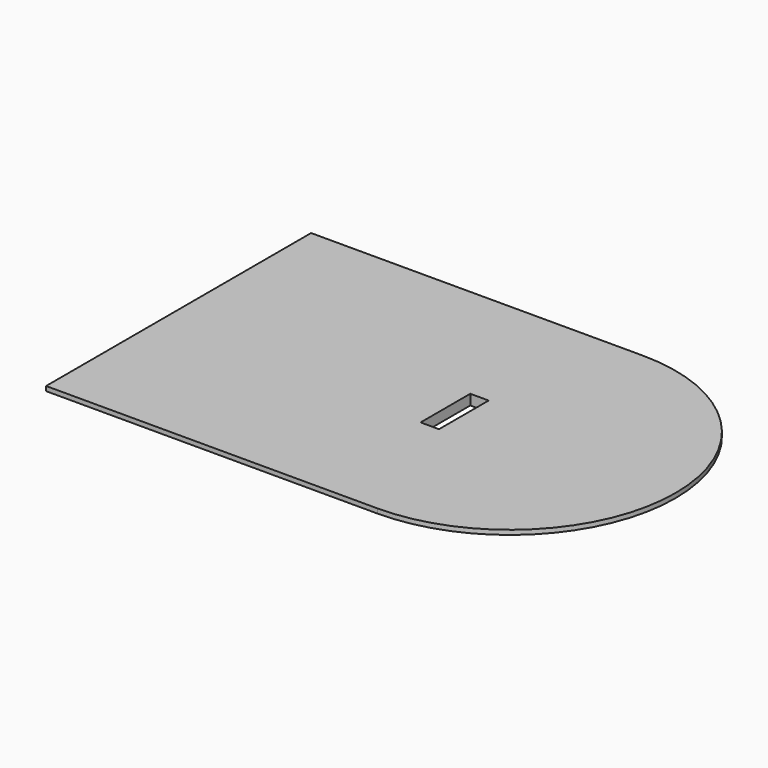
from build123d import *

# Parameters (mm, degrees)
F0_W     = 914.4
F0_H     = 914.4
F1_DEPTH = 28.575
F3_DEPTH = 31.75
F5_D     = 3.175
F5_DEPTH = 12.7
F5_TIP   = 0.9538662327
F6_SIZE2 = 16.002
F6_SIZE  = 50.8


with BuildPart() as f1:
    # F0 (on Top) → F1 (new body)
    with BuildSketch(Plane.XY):
        Rectangle(F0_W, F0_H)
        with BuildLine():
            ThreePointArc((457.2, -457.2), (914.4, 0), (457.2, 457.2))
            Line((457.2, 457.2), (457.2, -457.2))
        make_face()
    extrude(amount=F1_DEPTH)

    # F2 (on face) → F3 (cut)
    with BuildSketch(Plane.XY.offset(28.575)):
        Polygon((330.2, -85.725), (330.2, 0), (330.2, 85.725), (279.4, 85.725), (279.4, -85.725), align=None)
    extrude(amount=-F3_DEPTH, mode=Mode.SUBTRACT)

    # F5
    with Locations(Plane(origin=(0, 0, 0), x_dir=(1, 0, 0), z_dir=(0, 0, -1))):
        with Locations((393.7, 88.9), (520.7, 88.9), (457.2, 50.8), (406.4, 0), (508, 0), (457.2, -50.8), (393.7, -88.9), (520.7, -88.9)):
            Hole(F5_D / 2, depth=F5_DEPTH)
            with Locations((0, 0, -(F5_DEPTH + F5_TIP / 2))):  # 118° drill point
                Cone(0, F5_D / 2, F5_TIP, mode=Mode.SUBTRACT)

    # F6
    f6_edges = [f1.edges().sort_by_distance(p)[0] for p in [
        (0, -457.2, 0),
        (914.4, 0, 0),
        (0, 457.2, 0),
    ]]
    f6_side = f1.faces().sort_by_distance((182.702336, 0, 0))[0]
    chamfer(f6_edges, length=F6_SIZE, length2=F6_SIZE2, reference=f6_side)


solid = f1.part
